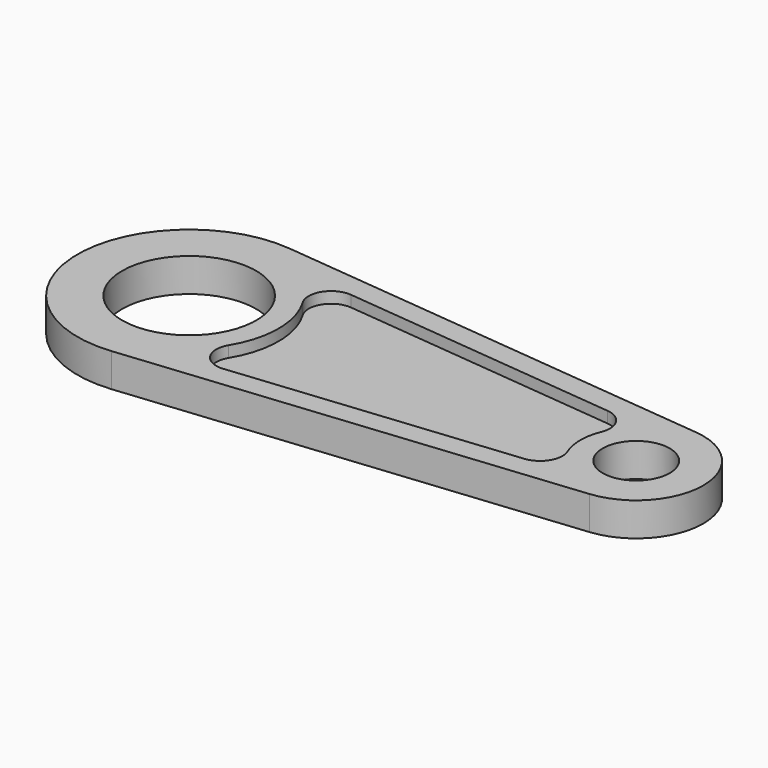
from build123d import *

# Parameters (mm, degrees)
F1_DEPTH = 15
F3_D     = 60
F4_D     = 30
F6_DEPTH = 5
F8_DEPTH = 5


with BuildPart() as f1:
    # F0 (on Top) → F1 (new body)
    with BuildSketch(Plane.XY):
        with BuildLine():
            Line((203, 29.8496231132), (5, 49.7493718553))
            ThreePointArc((5, 49.7493718553), (-50, 0), (5, -49.7493718553))
            Line((5, -49.7493718553), (203, -29.8496231132))
            ThreePointArc((203, -29.8496231132), (230, 0), (203, 29.8496231132))
        make_face()
    extrude(amount=F1_DEPTH)

    # F3 (through all)
    with Locations(Plane(origin=(0, 0, 0), x_dir=(1, 0, 0), z_dir=(0, 0, -1))):
        with Locations((0, 0)):
            Hole(F3_D / 2)

    # F4 (through all)
    with Locations(Plane(origin=(0, 0, 0), x_dir=(1, 0, 0), z_dir=(0, 0, -1))):
        with Locations((200, 0)):
            Hole(F4_D / 2)

    # F5 (on face) → F6 (cut)
    with BuildSketch(Plane.XY.offset(15)):
        with BuildLine():
            Line((168.6271068081, 23.2538507084), (43.7994974843, 35.7994974843))
            ThreePointArc((43.7994974843, 35.7994974843), (34.3472728952, 31.1937693965), (34.2395979874, 20.6796984906))
            ThreePointArc((34.2395979874, 20.6796984906), (40, 0), (34.2395979874, -20.6796984906))
            ThreePointArc((34.2395979874, -20.6796984906), (34.3472728952, -31.1937693965), (43.7994974843, -35.7994974843))
            Line((43.7994974843, -35.7994974843), (168.6271068081, -23.2538507084))
            ThreePointArc((168.6271068081, -23.2538507084), (176.2023684566, -18.4483798654), (176.8765048629, -9.5028402409))
            ThreePointArc((176.8765048629, -9.5028402409), (175, 0), (176.8765048629, 9.5028402409))
            ThreePointArc((176.8765048629, 9.5028402409), (176.2023684566, 18.4483798654), (168.6271068081, 23.2538507084))
        make_face()
    extrude(amount=-F6_DEPTH, mode=Mode.SUBTRACT)

    # F7 (on Top) → F8 (cut)
    with BuildSketch(Plane.XY):
        with BuildLine():
            Line((168.6271068081, 23.2538507084), (43.7994974843, 35.7994974843))
            ThreePointArc((43.7994974843, 35.7994974843), (34.3472728952, 31.1937693965), (34.2395979874, 20.6796984906))
            ThreePointArc((34.2395979874, 20.6796984906), (40, 0), (34.2395979874, -20.6796984906))
            ThreePointArc((34.2395979874, -20.6796984906), (34.3472728952, -31.1937693965), (43.7994974843, -35.7994974843))
            Line((43.7994974843, -35.7994974843), (168.6271068081, -23.2538507084))
            ThreePointArc((168.6271068081, -23.2538507084), (176.2023684566, -18.4483798654), (176.8765048629, -9.5028402409))
            ThreePointArc((176.8765048629, -9.5028402409), (175, 0), (176.8765048629, 9.5028402409))
            ThreePointArc((176.8765048629, 9.5028402409), (176.2023684566, 18.4483798654), (168.6271068081, 23.2538507084))
        make_face()
    extrude(amount=F8_DEPTH, mode=Mode.SUBTRACT)


solid = f1.part
